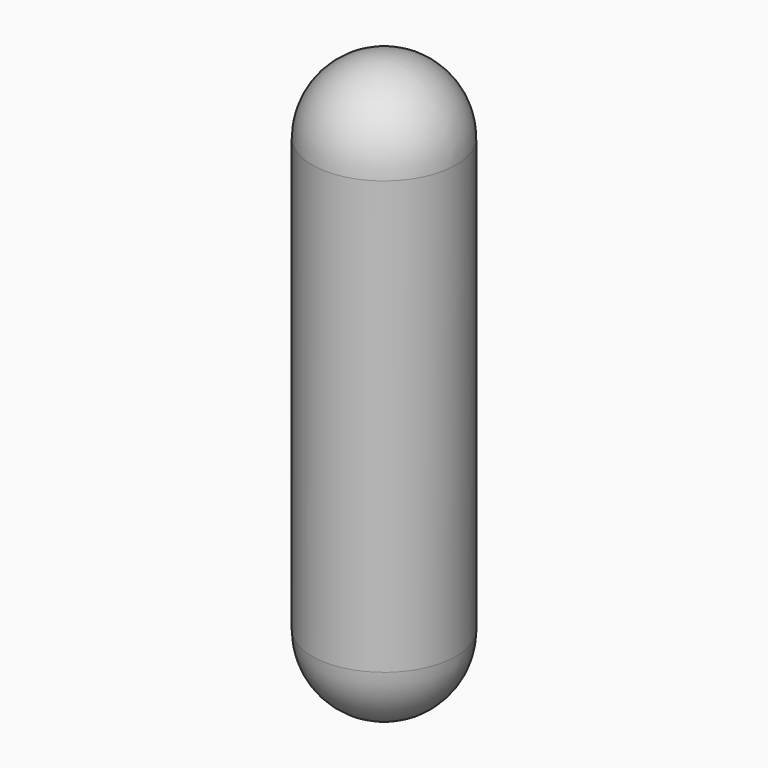
from build123d import *

# Parameters (mm, degrees)
F0_R     = 6.35
F1_DEPTH = 25.4
F2_R     = 6.35


with BuildPart() as f1:
    # F0 (on Top) → F1 (new body)
    with BuildSketch(Plane.XY):
        Circle(F0_R)
    extrude(amount=F1_DEPTH)

    # F2
    f2_edges = [f1.edges().sort_by_distance(p)[0] for p in [
        (-6.35, 0, 25.4),
    ]]
    fillet(f2_edges, radius=F2_R)

    # F3: F1 across face


with BuildPart() as f1_1:
    add(f1.part)
    add(f1.part.mirror(Plane(origin=(0, 0, 0), x_dir=(1, 0, 0), z_dir=(0, 0, -1))))


solid = f1_1.part
